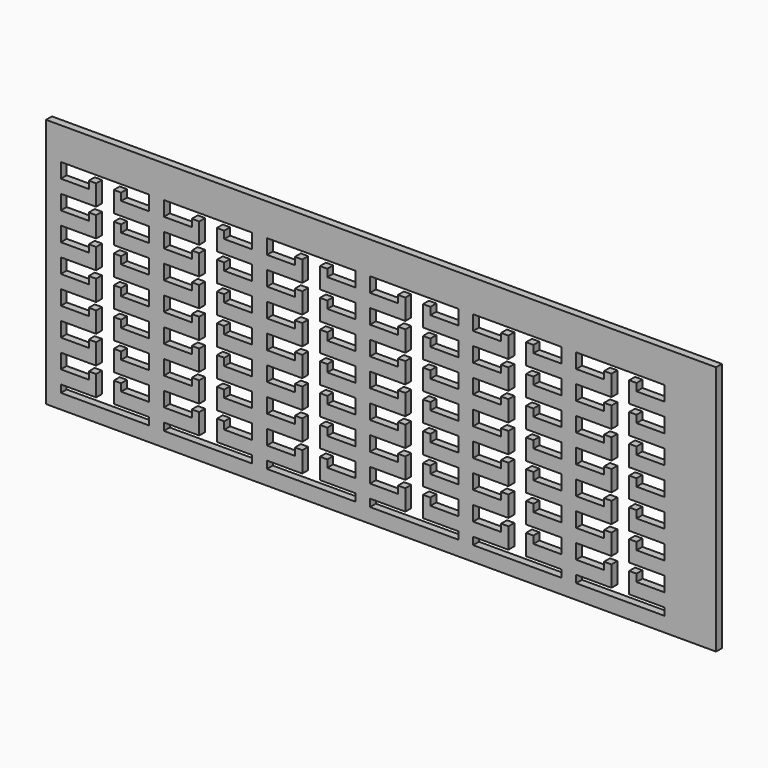
from build123d import *

# Parameters (mm, degrees)
F0_W     = 577.85
F0_H     = 215.9
F1_DEPTH = 6.35


with BuildPart() as f1:
    # F0 (on Front) → F1 (new body)
    with BuildSketch(Plane.XZ):
        with Locations((-266.234771, 15.203728)):
            Rectangle(F0_W, F0_H)
        Polygon((-542.459771, -62.202783), (-542.459771, -49.502783), (-511.979771, -49.502783), (-511.979771, -31.722783), (-518.329771, -31.722783), (-518.329771, -38.072783), (-542.459771, -38.072783), (-542.459771, -25.372783), (-511.979771, -25.372783), (-511.979771, -7.592783), (-518.329771, -7.592783), (-518.329771, -13.942783), (-542.459771, -13.942783), (-542.459771, -1.242783), (-511.979771, -1.242783), (-511.979771, 16.537217), (-518.329771, 16.537217), (-518.329771, 10.187217), (-542.459771, 10.187217), (-542.459771, 22.887217), (-511.979771, 22.887217), (-511.979771, 40.667217), (-518.329771, 40.667217), (-518.329771, 34.317217), (-542.459771, 34.317217), (-542.459771, 47.017217), (-511.979771, 47.017217), (-511.979771, 64.797217), (-518.329771, 64.797217), (-518.329771, 58.447217), (-542.459771, 58.447217), (-542.459771, 71.147217), (-511.979771, 71.147217), (-511.979771, 88.927217), (-518.329771, 88.927217), (-518.329771, 82.577217), (-542.459771, 82.577217), (-542.459771, 95.277217), (-466.259771, 95.277217), (-466.259771, 82.577217), (-490.389771, 82.577217), (-490.389771, 88.927217), (-496.739771, 88.927217), (-496.739771, 71.147217), (-466.259771, 71.147217), (-466.259771, 58.447217), (-490.389771, 58.447217), (-490.389771, 64.797217), (-496.739771, 64.797217), (-496.739771, 47.017217), (-466.259771, 47.017217), (-466.259771, 34.317217), (-490.389771, 34.317217), (-490.389771, 40.667217), (-496.739771, 40.667217), (-496.739771, 22.887217), (-466.259771, 22.887217), (-466.259771, 10.187217), (-490.389771, 10.187217), (-490.389771, 16.537217), (-496.739771, 16.537217), (-496.739771, -1.242783), (-466.259771, -1.242783), (-466.259771, -13.942783), (-490.389771, -13.942783), (-490.389771, -7.592783), (-496.739771, -7.592783), (-496.739771, -25.372783), (-466.259771, -25.372783), (-466.259771, -38.072783), (-490.389771, -38.072783), (-490.389771, -31.722783), (-496.739771, -31.722783), (-496.739771, -49.502783), (-466.259771, -49.502783), (-466.259771, -62.202783), (-490.389771, -62.202783), (-490.389771, -55.852783), (-496.739771, -55.852783), (-496.739771, -73.632783), (-466.259771, -73.632783), (-466.259771, -80.046283), (-542.459771, -80.046283), (-542.459771, -73.632783), (-511.979771, -73.632783), (-511.979771, -55.852783), (-518.329771, -55.852783), (-518.329771, -62.202783), align=None, mode=Mode.SUBTRACT)
        Polygon((-453.559771, -62.202772), (-453.559771, -49.502772), (-423.079771, -49.502772), (-423.079771, -31.722772), (-429.429771, -31.722772), (-429.429771, -38.072772), (-453.559771, -38.072772), (-453.559771, -25.372772), (-423.079771, -25.372772), (-423.079771, -7.592772), (-429.429771, -7.592772), (-429.429771, -13.942772), (-453.559771, -13.942772), (-453.559771, -1.242772), (-423.079771, -1.242772), (-423.079771, 16.537228), (-429.429771, 16.537228), (-429.429771, 10.187228), (-453.559771, 10.187228), (-453.559771, 22.887228), (-423.079771, 22.887228), (-423.079771, 40.667228), (-429.429771, 40.667228), (-429.429771, 34.317228), (-453.559771, 34.317228), (-453.559771, 47.017228), (-423.079771, 47.017228), (-423.079771, 64.797228), (-429.429771, 64.797228), (-429.429771, 58.447228), (-453.559771, 58.447228), (-453.559771, 71.147228), (-423.079771, 71.147228), (-423.079771, 88.927228), (-429.429771, 88.927228), (-429.429771, 82.577228), (-453.559771, 82.577228), (-453.559771, 95.277228), (-377.359771, 95.277228), (-377.359771, 82.577228), (-401.489771, 82.577228), (-401.489771, 88.927228), (-407.839771, 88.927228), (-407.839771, 71.147228), (-377.359771, 71.147228), (-377.359771, 58.447228), (-401.489771, 58.447228), (-401.489771, 64.797228), (-407.839771, 64.797228), (-407.839771, 47.017228), (-377.359771, 47.017228), (-377.359771, 34.317228), (-401.489771, 34.317228), (-401.489771, 40.667228), (-407.839771, 40.667228), (-407.839771, 22.887228), (-377.359771, 22.887228), (-377.359771, 10.187228), (-401.489771, 10.187228), (-401.489771, 16.537228), (-407.839771, 16.537228), (-407.839771, -1.242772), (-377.359771, -1.242772), (-377.359771, -13.942772), (-401.489771, -13.942772), (-401.489771, -7.592772), (-407.839771, -7.592772), (-407.839771, -25.372772), (-377.359771, -25.372772), (-377.359771, -38.072772), (-401.489771, -38.072772), (-401.489771, -31.722772), (-407.839771, -31.722772), (-407.839771, -49.502772), (-377.359771, -49.502772), (-377.359771, -62.202772), (-401.489771, -62.202772), (-401.489771, -55.852772), (-407.839771, -55.852772), (-407.839771, -73.632772), (-377.359771, -73.632772), (-377.359771, -80.046272), (-453.559771, -80.046272), (-453.559771, -73.632772), (-423.079771, -73.632772), (-423.079771, -55.852772), (-429.429771, -55.852772), (-429.429771, -62.202772), align=None, mode=Mode.SUBTRACT)
        Polygon((-364.659771, 95.277228), (-288.459771, 95.277228), (-288.459771, 82.577228), (-312.589771, 82.577228), (-312.589771, 88.927228), (-318.939771, 88.927228), (-318.939771, 71.147228), (-288.459771, 71.147228), (-288.459771, 58.447228), (-312.589771, 58.447228), (-312.589771, 64.797228), (-318.939771, 64.797228), (-318.939771, 47.017228), (-288.459771, 47.017228), (-288.459771, 34.317228), (-312.589771, 34.317228), (-312.589771, 40.667228), (-318.939771, 40.667228), (-318.939771, 22.887228), (-288.459771, 22.887228), (-288.459771, 10.187228), (-312.589771, 10.187228), (-312.589771, 16.537228), (-318.939771, 16.537228), (-318.939771, -1.242772), (-288.459771, -1.242772), (-288.459771, -13.942772), (-312.589771, -13.942772), (-312.589771, -7.592772), (-318.939771, -7.592772), (-318.939771, -25.372772), (-288.459771, -25.372772), (-288.459771, -38.072772), (-312.589771, -38.072772), (-312.589771, -31.722772), (-318.939771, -31.722772), (-318.939771, -49.502772), (-288.459771, -49.502772), (-288.459771, -62.202772), (-312.589771, -62.202772), (-312.589771, -55.852772), (-318.939771, -55.852772), (-318.939771, -73.632772), (-288.459771, -73.632772), (-288.459771, -80.046272), (-364.659771, -80.046272), (-364.659771, -73.632772), (-334.179771, -73.632772), (-334.179771, -55.852772), (-340.529771, -55.852772), (-340.529771, -62.202772), (-364.659771, -62.202772), (-364.659771, -49.502772), (-334.179771, -49.502772), (-334.179771, -31.722772), (-340.529771, -31.722772), (-340.529771, -38.072772), (-364.659771, -38.072772), (-364.659771, -25.372772), (-334.179771, -25.372772), (-334.179771, -7.592772), (-340.529771, -7.592772), (-340.529771, -13.942772), (-364.659771, -13.942772), (-364.659771, -1.242772), (-334.179771, -1.242772), (-334.179771, 16.537228), (-340.529771, 16.537228), (-340.529771, 10.187228), (-364.659771, 10.187228), (-364.659771, 22.887228), (-334.179771, 22.887228), (-334.179771, 40.667228), (-340.529771, 40.667228), (-340.529771, 34.317228), (-364.659771, 34.317228), (-364.659771, 47.017228), (-334.179771, 47.017228), (-334.179771, 64.797228), (-340.529771, 64.797228), (-340.529771, 58.447228), (-364.659771, 58.447228), (-364.659771, 71.147228), (-334.179771, 71.147228), (-334.179771, 88.927228), (-340.529771, 88.927228), (-340.529771, 82.577228), (-364.659771, 82.577228), align=None, mode=Mode.SUBTRACT)
        Polygon((-275.759771, -62.202772), (-275.759771, -49.502772), (-245.279771, -49.502772), (-245.279771, -31.722772), (-251.629771, -31.722772), (-251.629771, -38.072772), (-275.759771, -38.072772), (-275.759771, -25.372772), (-245.279771, -25.372772), (-245.279771, -7.592772), (-251.629771, -7.592772), (-251.629771, -13.942772), (-275.759771, -13.942772), (-275.759771, -1.242772), (-245.279771, -1.242772), (-245.279771, 16.537228), (-251.629771, 16.537228), (-251.629771, 10.187228), (-275.759771, 10.187228), (-275.759771, 22.887228), (-245.279771, 22.887228), (-245.279771, 40.667228), (-251.629771, 40.667228), (-251.629771, 34.317228), (-275.759771, 34.317228), (-275.759771, 47.017228), (-245.279771, 47.017228), (-245.279771, 64.797228), (-251.629771, 64.797228), (-251.629771, 58.447228), (-275.759771, 58.447228), (-275.759771, 71.147228), (-245.279771, 71.147228), (-245.279771, 88.927228), (-251.629771, 88.927228), (-251.629771, 82.577228), (-275.759771, 82.577228), (-275.759771, 95.277228), (-199.559771, 95.277228), (-199.559771, 82.577228), (-223.689771, 82.577228), (-223.689771, 88.927228), (-230.039771, 88.927228), (-230.039771, 71.147228), (-199.559771, 71.147228), (-199.559771, 58.447228), (-223.689771, 58.447228), (-223.689771, 64.797228), (-230.039771, 64.797228), (-230.039771, 47.017228), (-199.559771, 47.017228), (-199.559771, 34.317228), (-223.689771, 34.317228), (-223.689771, 40.667228), (-230.039771, 40.667228), (-230.039771, 22.887228), (-199.559771, 22.887228), (-199.559771, 10.187228), (-223.689771, 10.187228), (-223.689771, 16.537228), (-230.039771, 16.537228), (-230.039771, -1.242772), (-199.559771, -1.242772), (-199.559771, -13.942772), (-223.689771, -13.942772), (-223.689771, -7.592772), (-230.039771, -7.592772), (-230.039771, -25.372772), (-199.559771, -25.372772), (-199.559771, -38.072772), (-223.689771, -38.072772), (-223.689771, -31.722772), (-230.039771, -31.722772), (-230.039771, -49.502772), (-199.559771, -49.502772), (-199.559771, -62.202772), (-223.689771, -62.202772), (-223.689771, -55.852772), (-230.039771, -55.852772), (-230.039771, -73.632772), (-199.559771, -73.632772), (-199.559771, -80.046272), (-275.759771, -80.046272), (-275.759771, -73.632772), (-245.279771, -73.632772), (-245.279771, -55.852772), (-251.629771, -55.852772), (-251.629771, -62.202772), align=None, mode=Mode.SUBTRACT)
        Polygon((-186.859771, -62.202772), (-186.859771, -49.502772), (-156.379771, -49.502772), (-156.379771, -31.722772), (-162.729771, -31.722772), (-162.729771, -38.072772), (-186.859771, -38.072772), (-186.859771, -25.372772), (-156.379771, -25.372772), (-156.379771, -7.592772), (-162.729771, -7.592772), (-162.729771, -13.942772), (-186.859771, -13.942772), (-186.859771, -1.242772), (-156.379771, -1.242772), (-156.379771, 16.537228), (-162.729771, 16.537228), (-162.729771, 10.187228), (-186.859771, 10.187228), (-186.859771, 22.887228), (-156.379771, 22.887228), (-156.379771, 40.667228), (-162.729771, 40.667228), (-162.729771, 34.317228), (-186.859771, 34.317228), (-186.859771, 47.017228), (-156.379771, 47.017228), (-156.379771, 64.797228), (-162.729771, 64.797228), (-162.729771, 58.447228), (-186.859771, 58.447228), (-186.859771, 71.147228), (-156.379771, 71.147228), (-156.379771, 88.927228), (-162.729771, 88.927228), (-162.729771, 82.577228), (-186.859771, 82.577228), (-186.859771, 95.277228), (-110.659771, 95.277228), (-110.659771, 82.577228), (-134.789771, 82.577228), (-134.789771, 88.927228), (-141.139771, 88.927228), (-141.139771, 71.147228), (-110.659771, 71.147228), (-110.659771, 58.447228), (-134.789771, 58.447228), (-134.789771, 64.797228), (-141.139771, 64.797228), (-141.139771, 47.017228), (-110.659771, 47.017228), (-110.659771, 34.317228), (-134.789771, 34.317228), (-134.789771, 40.667228), (-141.139771, 40.667228), (-141.139771, 22.887228), (-110.659771, 22.887228), (-110.659771, 10.187228), (-134.789771, 10.187228), (-134.789771, 16.537228), (-141.139771, 16.537228), (-141.139771, -1.242772), (-110.659771, -1.242772), (-110.659771, -13.942772), (-134.789771, -13.942772), (-134.789771, -7.592772), (-141.139771, -7.592772), (-141.139771, -25.372772), (-110.659771, -25.372772), (-110.659771, -38.072772), (-134.789771, -38.072772), (-134.789771, -31.722772), (-141.139771, -31.722772), (-141.139771, -49.502772), (-110.659771, -49.502772), (-110.659771, -62.202772), (-134.789771, -62.202772), (-134.789771, -55.852772), (-141.139771, -55.852772), (-141.139771, -73.632772), (-110.659771, -73.632772), (-110.659771, -80.046272), (-186.859771, -80.046272), (-186.859771, -73.632772), (-156.379771, -73.632772), (-156.379771, -55.852772), (-162.729771, -55.852772), (-162.729771, -62.202772), align=None, mode=Mode.SUBTRACT)
        Polygon((-97.959771, -62.202772), (-97.959771, -49.502772), (-67.479771, -49.502772), (-67.479771, -31.722772), (-73.829771, -31.722772), (-73.829771, -38.072772), (-97.959771, -38.072772), (-97.959771, -25.372772), (-67.479771, -25.372772), (-67.479771, -7.592772), (-73.829771, -7.592772), (-73.829771, -13.942772), (-97.959771, -13.942772), (-97.959771, -1.242772), (-67.479771, -1.242772), (-67.479771, 16.537228), (-73.829771, 16.537228), (-73.829771, 10.187228), (-97.959771, 10.187228), (-97.959771, 22.887228), (-67.479771, 22.887228), (-67.479771, 40.667228), (-73.829771, 40.667228), (-73.829771, 34.317228), (-97.959771, 34.317228), (-97.959771, 47.017228), (-67.479771, 47.017228), (-67.479771, 64.797228), (-73.829771, 64.797228), (-73.829771, 58.447228), (-97.959771, 58.447228), (-97.959771, 71.147228), (-67.479771, 71.147228), (-67.479771, 88.927228), (-73.829771, 88.927228), (-73.829771, 82.577228), (-97.959771, 82.577228), (-97.959771, 95.277228), (-21.759771, 95.277228), (-21.759771, 82.577228), (-45.889771, 82.577228), (-45.889771, 88.927228), (-52.239771, 88.927228), (-52.239771, 71.147228), (-21.759771, 71.147228), (-21.759771, 58.447228), (-45.889771, 58.447228), (-45.889771, 64.797228), (-52.239771, 64.797228), (-52.239771, 47.017228), (-21.759771, 47.017228), (-21.759771, 34.317228), (-45.889771, 34.317228), (-45.889771, 40.667228), (-52.239771, 40.667228), (-52.239771, 22.887228), (-21.759771, 22.887228), (-21.759771, 10.187228), (-45.889771, 10.187228), (-45.889771, 16.537228), (-52.239771, 16.537228), (-52.239771, -1.242772), (-21.759771, -1.242772), (-21.759771, -13.942772), (-45.889771, -13.942772), (-45.889771, -7.592772), (-52.239771, -7.592772), (-52.239771, -25.372772), (-21.759771, -25.372772), (-21.759771, -38.072772), (-45.889771, -38.072772), (-45.889771, -31.722772), (-52.239771, -31.722772), (-52.239771, -49.502772), (-21.759771, -49.502772), (-21.759771, -62.202772), (-45.889771, -62.202772), (-45.889771, -55.852772), (-52.239771, -55.852772), (-52.239771, -73.632772), (-21.759771, -73.632772), (-21.759771, -80.046272), (-97.959771, -80.046272), (-97.959771, -73.632772), (-67.479771, -73.632772), (-67.479771, -55.852772), (-73.829771, -55.852772), (-73.829771, -62.202772), align=None, mode=Mode.SUBTRACT)
    extrude(amount=F1_DEPTH)


solid = f1.part
